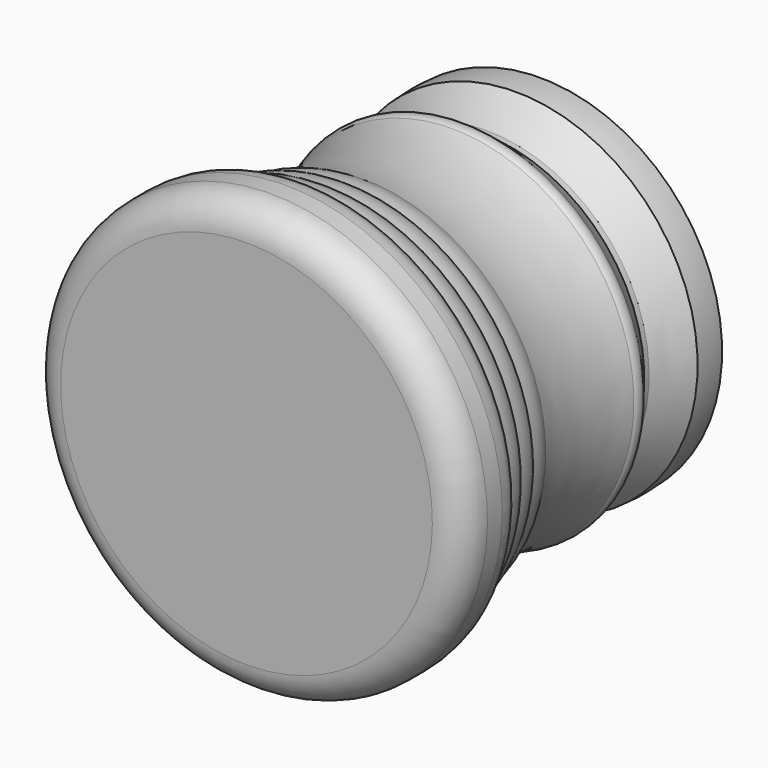
from build123d import *

# Parameters (mm, degrees)
F0_W     = 16
F0_H     = 2
F0_H_2   = 5
F1_DEPTH = 25
F3_R     = 5
F4_R     = 6
F5_DEPTH = 50


with BuildPart() as f1:
    # F0 (on Top) → F1 (new body)
    with BuildSketch(Plane.XY):
        Polygon((-25, -49.6667471989), (0, -49.6667471989), (0, -41.6667471989), (-22, -41.6667471989), (-25, -41.6667471989), align=None)
        Polygon((-22, -41.6667471989), (0, -41.6667471989), (0, -37.6667471989), (-20, -37.6667471989), (-22, -37.6667471989), align=None)
        with BuildLine():
            ThreePointArc((-22, -37.6667471989), (-24.1666666667, -39.1667471989), (-25, -41.6667471989))
            Line((-25, -41.6667471989), (-22, -41.6667471989))
            Line((-22, -41.6667471989), (-22, -37.6667471989))
        make_face()
        Polygon((-20, -37.6667471989), (0, -37.6667471989), (0, -33.6667471989), (-18, -33.6667471989), (-20, -33.6667471989), align=None)
        with BuildLine():
            ThreePointArc((-20, -33.6667471989), (-21.472135955, -35.4306792214), (-22, -37.6667471989))
            Line((-22, -37.6667471989), (-20, -37.6667471989))
            Line((-20, -37.6667471989), (-20, -33.6667471989))
        make_face()
        Polygon((-18, -33.6667471989), (0, -33.6667471989), (0, -29.6667471989), (-1.4743328793, -29.6667471989), (-16, -29.6667471989), (-18, -29.6667471989), align=None)
        with BuildLine():
            ThreePointArc((-18, -29.6667471989), (-19.472135955, -31.4306792214), (-20, -33.6667471989))
            Line((-20, -33.6667471989), (-18, -33.6667471989))
            Line((-18, -33.6667471989), (-18, -29.6667471989))
        make_face()
        Polygon((-1.4743328793, -29.6667471989), (0, -29.6667471989), (0, -25.6667471989), (-16, -25.6667471989), (-16, -29.6667471989), align=None)
        with BuildLine():
            ThreePointArc((-16, -25.6667471989), (-17.472135955, -27.4306792214), (-18, -29.6667471989))
            Line((-18, -29.6667471989), (-16, -29.6667471989))
            Line((-16, -29.6667471989), (-16, -25.6667471989))
        make_face()
        with BuildLine():
            Line((-16, -25.6667471989), (0, -25.6667471989))
            Line((0, -25.6667471989), (0, -7.6667471989))
            Line((0, -7.6667471989), (-16, -7.6667471989))
            ThreePointArc((-16, -7.6667471989), (-13.4222051019, -16.6667471989), (-16, -25.6667471989))
        make_face()
        with Locations((-8, -6.6667471989)):
            Rectangle(F0_W, F0_H)
        with BuildLine():
            ThreePointArc((-16, -5.6667471989), (-16.5803225355, -6.6667471989), (-16, -7.6667471989))
            Line((-16, -7.6667471989), (-16, -5.6667471989))
        make_face()
        Polygon((-16, -5.6667471989), (0, -5.6667471989), (0, -1.6667471989), (-9, -1.6667471989), align=None)
        with BuildLine():
            Line((-9, -1.6667471989), (0, -1.6667471989))
            Line((0, -1.6667471989), (0, -0.6667471989))
            Line((0, -0.6667471989), (-9, -0.6667471989))
            ThreePointArc((-9, -0.6667471989), (-8.7700325388, -1.1667471989), (-9, -1.6667471989))
        make_face()
        with BuildLine():
            Line((-9, -0.6667471989), (-9, -1.6667471989))
            ThreePointArc((-9, -1.6667471989), (-8.7700325388, -1.1667471989), (-9, -0.6667471989))
        make_face()
        Polygon((-9, -0.6667471989), (0, -0.6667471989), (0, 0), (0, 5.3332528011), (-16, 5.3332528011), align=None)
        with Locations((-8, 7.8332528011)):
            Rectangle(F0_W, F0_H_2)
        with BuildLine():
            ThreePointArc((-16, 10.3332528011), (-16.1965193707, 7.8332528011), (-16, 5.3332528011))
            Line((-16, 5.3332528011), (-16, 10.3332528011))
        make_face()
    extrude(amount=F1_DEPTH)

    # F0 (on Top) + F1_face (on face) → F2 (revolve)
    with BuildSketch(Plane.XY):
        Polygon((-25, -49.6667471989), (0, -49.6667471989), (0, -41.6667471989), (-22, -41.6667471989), (-25, -41.6667471989), align=None)
        Polygon((-22, -41.6667471989), (0, -41.6667471989), (0, -37.6667471989), (-20, -37.6667471989), (-22, -37.6667471989), align=None)
        with BuildLine():
            ThreePointArc((-22, -37.6667471989), (-24.1666666667, -39.1667471989), (-25, -41.6667471989))
            Line((-25, -41.6667471989), (-22, -41.6667471989))
            Line((-22, -41.6667471989), (-22, -37.6667471989))
        make_face()
        Polygon((-20, -37.6667471989), (0, -37.6667471989), (0, -33.6667471989), (-18, -33.6667471989), (-20, -33.6667471989), align=None)
        with BuildLine():
            ThreePointArc((-20, -33.6667471989), (-21.472135955, -35.4306792214), (-22, -37.6667471989))
            Line((-22, -37.6667471989), (-20, -37.6667471989))
            Line((-20, -37.6667471989), (-20, -33.6667471989))
        make_face()
        Polygon((-18, -33.6667471989), (0, -33.6667471989), (0, -29.6667471989), (-1.4743328793, -29.6667471989), (-16, -29.6667471989), (-18, -29.6667471989), align=None)
        with BuildLine():
            ThreePointArc((-18, -29.6667471989), (-19.472135955, -31.4306792214), (-20, -33.6667471989))
            Line((-20, -33.6667471989), (-18, -33.6667471989))
            Line((-18, -33.6667471989), (-18, -29.6667471989))
        make_face()
        Polygon((-1.4743328793, -29.6667471989), (0, -29.6667471989), (0, -25.6667471989), (-16, -25.6667471989), (-16, -29.6667471989), align=None)
        with BuildLine():
            ThreePointArc((-16, -25.6667471989), (-17.472135955, -27.4306792214), (-18, -29.6667471989))
            Line((-18, -29.6667471989), (-16, -29.6667471989))
            Line((-16, -29.6667471989), (-16, -25.6667471989))
        make_face()
        with BuildLine():
            Line((-16, -25.6667471989), (0, -25.6667471989))
            Line((0, -25.6667471989), (0, -7.6667471989))
            Line((0, -7.6667471989), (-16, -7.6667471989))
            ThreePointArc((-16, -7.6667471989), (-13.4222051019, -16.6667471989), (-16, -25.6667471989))
        make_face()
        with Locations((-8, -6.6667471989)):
            Rectangle(F0_W, F0_H)
        with BuildLine():
            ThreePointArc((-16, -5.6667471989), (-16.5803225355, -6.6667471989), (-16, -7.6667471989))
            Line((-16, -7.6667471989), (-16, -5.6667471989))
        make_face()
        Polygon((-16, -5.6667471989), (0, -5.6667471989), (0, -1.6667471989), (-9, -1.6667471989), align=None)
        with BuildLine():
            Line((-9, -1.6667471989), (0, -1.6667471989))
            Line((0, -1.6667471989), (0, -0.6667471989))
            Line((0, -0.6667471989), (-9, -0.6667471989))
            ThreePointArc((-9, -0.6667471989), (-8.7700325388, -1.1667471989), (-9, -1.6667471989))
        make_face()
        with BuildLine():
            Line((-9, -0.6667471989), (-9, -1.6667471989))
            ThreePointArc((-9, -1.6667471989), (-8.7700325388, -1.1667471989), (-9, -0.6667471989))
        make_face()
        Polygon((-9, -0.6667471989), (0, -0.6667471989), (0, 0), (0, 5.3332528011), (-16, 5.3332528011), align=None)
        with Locations((-8, 7.8332528011)):
            Rectangle(F0_W, F0_H_2)
        with BuildLine():
            ThreePointArc((-16, 10.3332528011), (-16.1965193707, 7.8332528011), (-16, 5.3332528011))
            Line((-16, 5.3332528011), (-16, 10.3332528011))
        make_face()
    with BuildSketch(Plane(origin=(-9.2340448196, -23.5001528006, 25), x_dir=(1, 0, 0), z_dir=(0, 0, 1))):
        with BuildLine():
            Line((-15.7659551804, -26.1665943983), (9.2340448196, -26.1665943983))
            Line((9.2340448196, -26.1665943983), (9.2340448196, 33.8334056017))
            Line((9.2340448196, 33.8334056017), (-6.7659551804, 33.8334056017))
            ThreePointArc((-6.7659551804, 33.8334056017), (-6.9624745511, 31.3334056017), (-6.7659551804, 28.8334056017))
            Line((-6.7659551804, 28.8334056017), (0.2340448196, 22.8334056017))
            Line((0.2340448196, 22.8334056017), (0.2340448196, 21.8334056017))
            Line((0.2340448196, 21.8334056017), (-6.7659551804, 17.8334056017))
            ThreePointArc((-6.7659551804, 17.8334056017), (-7.3462777158, 16.8334056017), (-6.7659551804, 15.8334056017))
            ThreePointArc((-6.7659551804, 15.8334056017), (-4.1881602822, 6.8334056017), (-6.7659551804, -2.1665943983))
            ThreePointArc((-6.7659551804, -2.1665943983), (-8.2380911354, -3.9305264208), (-8.7659551804, -6.1665943983))
            ThreePointArc((-8.7659551804, -6.1665943983), (-10.2380911354, -7.9305264208), (-10.7659551804, -10.1665943983))
            ThreePointArc((-10.7659551804, -10.1665943983), (-12.2380911354, -11.9305264208), (-12.7659551804, -14.1665943983))
            ThreePointArc((-12.7659551804, -14.1665943983), (-14.932621847, -15.6665943983), (-15.7659551804, -18.1665943983))
            Line((-15.7659551804, -18.1665943983), (-15.7659551804, -26.1665943983))
        make_face()
    revolve(axis=Axis((0, -19.6667471989, 0), (0, 1, 0)))

    # F3
    f3_edges = [f1.edges().sort_by_distance(p)[0] for p in [
        (25, -49.666747, -25),
    ]]
    fillet(f3_edges, radius=F3_R)

    # F4 (on face) → F5 (join)
    with BuildSketch(Plane.XZ.offset(49.6667471989)):
        Circle(F4_R)
    extrude(amount=-F5_DEPTH)


solid = f1.part
